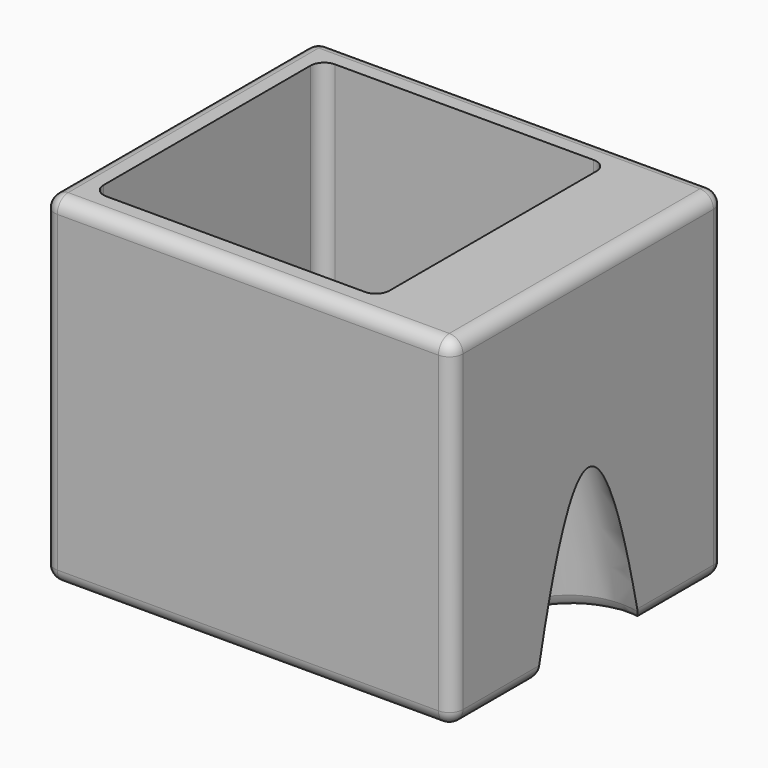
from build123d import *

# Parameters (mm, degrees)
BOX001_W             = 21
BOX001_H             = 21
BOX001_DEPTH         = 24
FILLET_R             = 1
CONE_ROLL_ANGLE      = 0.050765
CONE_PITCH_ANGLE     = -7.966932
CONE_PLACEMENT_ANGLE = -0.72899
BOX_W                = 30
BOX_H                = 25
BOX_DEPTH            = 25
FILLET001_R          = 1


with BuildPart() as fillet_body:
    # Box001 → Box001 (new body)
    with BuildSketch(Plane(origin=(2, 2, 2), x_dir=(1, 0, 0), z_dir=(0, 0, 1))):
        with Locations((10.5, 10.5)):
            Rectangle(BOX001_W, BOX001_H)
    extrude(amount=BOX001_DEPTH)

    # Fillet
    fillet_edges = [fillet_body.edges().sort_by_distance(p)[0] for p in [
        (2, 2, 14),
        (2, 23, 14),
        (2, 12.5, 2),
        (23, 2, 14),
        (23, 23, 14),
        (23, 12.5, 2),
        (12.5, 2, 2),
        (12.5, 23, 2),
    ]]
    fillet(fillet_edges, radius=FILLET_R)


with BuildPart() as cone:
    # Cone → Cone (revolve)
    with BuildSketch(Plane.XZ):
        Polygon((0, 0), (5, 0), (1, 23), (0, 23), align=None)
    revolve(axis=Axis((0, 0, 0), (0, 0, 1)))


with BuildPart() as cone_1:
    # Cone roll: moved
    add(cone.part.rotate(Axis((0, 0, 0), (1, 0, 0)), CONE_ROLL_ANGLE))


with BuildPart() as cone_2:
    # Cone pitch: moved
    add(cone_1.part.rotate(Axis((0, 0, 0), (0, 1, 0)), CONE_PITCH_ANGLE))


with BuildPart() as cone_3:
    # Cone placement: moved
    add(cone_2.part.moved(Location((29, 12.5, -1))).rotate(Axis((29, 12.5, -1), (0, 0, 1)), CONE_PLACEMENT_ANGLE))


with BuildPart() as fillet001:
    # Box → Box (new body)
    with BuildSketch(Plane.XY):
        with Locations((15, 12.5)):
            Rectangle(BOX_W, BOX_H)
    extrude(amount=BOX_DEPTH)

    # Cut: cut Cone
    add(cone_3.part, mode=Mode.SUBTRACT)

    # Cut001: cut Fillet body
    add(fillet_body.part, mode=Mode.SUBTRACT)

    # Fillet001
    fillet001_edges = [fillet001.edges().sort_by_distance(p)[0] for p in [
        (0, 0, 12.5),
        (0, 12.5, 25),
        (0, 25, 12.5),
        (0, 12.5, 0),
        (15, 0, 0),
        (30, 0, 12.5),
        (15, 0, 25),
        (15, 25, 25),
        (30, 12.5, 25),
        (15, 25, 0),
        (30, 25, 12.5),
        (30, 21.109354, 0),
        (24.104388, 12.500455, 0),
        (30, 3.890653, 0),
    ]]
    fillet(fillet001_edges, radius=FILLET001_R)


solid = fillet001.part
